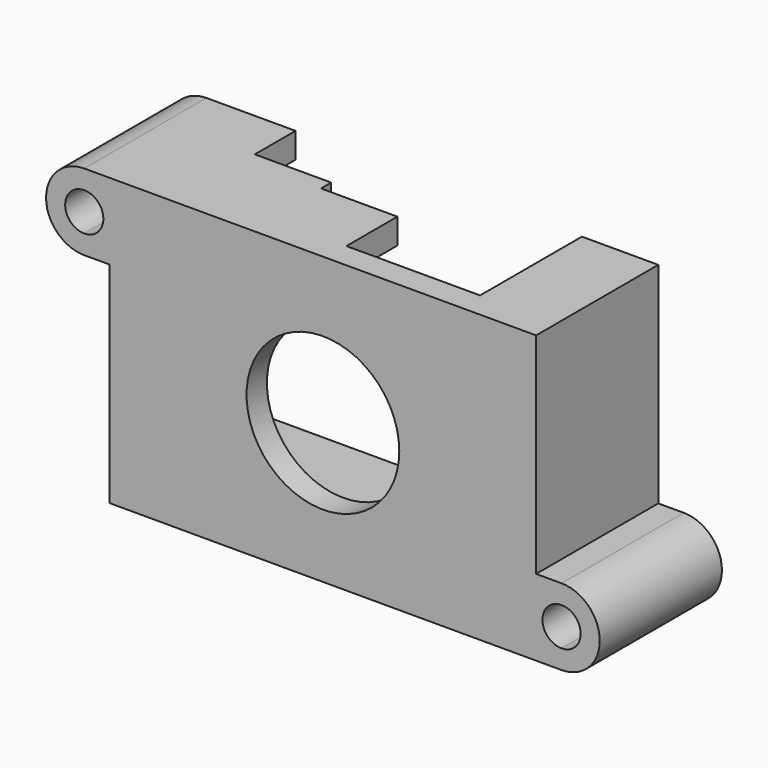
from build123d import *

# Parameters (mm, degrees)
F0_W      = 33.5
F0_H      = 22.5
F0_R      = 6
F1_DEPTH  = 2
F3_DEPTH  = 10
F4_W      = 6
F4_H      = 4
F5_DEPTH  = 2
F7_DEPTH  = 12
F8_W      = 6
F8_H      = 5
F9_DEPTH  = 2
F10_W     = 10
F10_H     = 2
F11_DEPTH = 5
F12_W     = 7
F12_H     = 14.5
F13_DEPTH = 2


with BuildPart() as f1:
    # F0 (on Front) → F1 (new body)
    with BuildSketch(Plane.XZ):
        with Locations((16.75, 11.25)):
            Rectangle(F0_W, F0_H)
        with Locations((16.75, 11)):
            Circle(F0_R, mode=Mode.SUBTRACT)
    extrude(amount=F1_DEPTH)

    # F2 (on face) → F3 (join)
    with BuildSketch(Plane(origin=(0, 0, 0), x_dir=(-1, 0, 0), z_dir=(0, 1, 0))):
        Polygon((-27.5, 22.5), (-33.5, 22.5), (-33.5, 0), (0, 0), (0, 22.5), (-11, 22.5), (-11, 20.5), (-2, 20.5), (-2, 2), (-31.5, 2), (-31.5, 20.5), (-27.5, 20.5), align=None)
    extrude(amount=F3_DEPTH)

    # F4 (on face) → F5 (cut, through all)
    with BuildSketch(Plane.XY.offset(22.5)):
        with Locations((8, 8)):
            Rectangle(F4_W, F4_H)
    extrude(amount=-F5_DEPTH, mode=Mode.SUBTRACT)

    # F6 (on face) → F7 (join, through all)
    with BuildSketch(Plane.XZ.offset(2)):
        with BuildLine():
            Line((33.5, 6), (33.5, 0))
            Line((33.5, 0), (35.5, 0))
            Line((35.5, 0), (35.5, 1.5))
            ThreePointArc((35.5, 1.5), (34, 3), (35.5, 4.5))
            Line((35.5, 4.5), (35.5, 6))
            Line((35.5, 6), (33.5, 6))
        make_face()
        with BuildLine():
            Line((35.5, 1.5), (35.5, 0))
            ThreePointArc((35.5, 0), (38.5, 3), (35.5, 6))
            Line((35.5, 6), (35.5, 4.5))
            ThreePointArc((35.5, 4.5), (36.56066, 4.06066), (37, 3))
            ThreePointArc((37, 3), (36.56066, 1.93934), (35.5, 1.5))
        make_face()
        with BuildLine():
            Line((0, 16.5), (0, 22.5))
            Line((0, 22.5), (-2, 22.5))
            Line((-2, 22.5), (-2, 21))
            ThreePointArc((-2, 21), (-0.93934, 20.56066), (-0.5, 19.5))
            ThreePointArc((-0.5, 19.5), (-0.93934, 18.43934), (-2, 18))
            Line((-2, 18), (-2, 16.5))
            Line((-2, 16.5), (0, 16.5))
        make_face()
        with BuildLine():
            Line((-2, 21), (-2, 22.5))
            ThreePointArc((-2, 22.5), (-5, 19.5), (-2, 16.5))
            Line((-2, 16.5), (-2, 18))
            ThreePointArc((-2, 18), (-3.5, 19.5), (-2, 21))
        make_face()
    extrude(amount=-F7_DEPTH)

    # F8 (on face) → F9 (join, through all)
    with BuildSketch(Plane.XY.offset(22.5)):
        with Locations((14, 2.5)):
            Rectangle(F8_W, F8_H)
    extrude(amount=-F9_DEPTH)

    # F10 (on face) → F11 (cut)
    with BuildSketch(Plane(origin=(0, 10, 0), x_dir=(-1, 0, 0), z_dir=(0, 1, 0))):
        with Locations((-26.5, 1)):
            Rectangle(F10_W, F10_H)
    extrude(amount=-F11_DEPTH, mode=Mode.SUBTRACT)

    # F12 (on face) → F13 (cut, through all)
    with BuildSketch(Plane(origin=(0, 0, 0), x_dir=(0, -1, 0), z_dir=(-1, 0, 0))):
        with Locations((-3.5, 9.25)):
            Rectangle(F12_W, F12_H)
    extrude(amount=-F13_DEPTH, mode=Mode.SUBTRACT)


solid = f1.part
